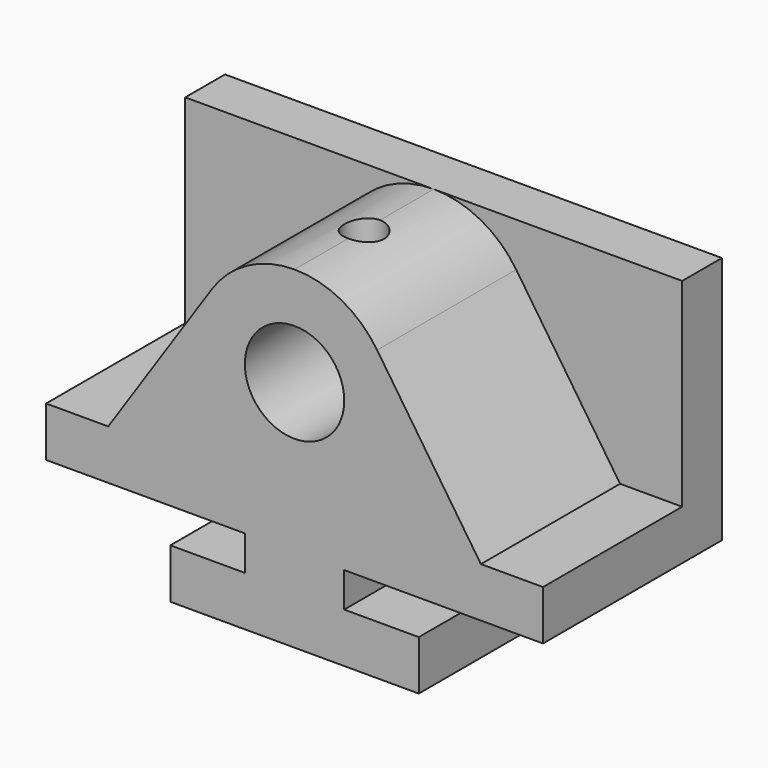
from build123d import *

# Parameters (mm, degrees)
F0_R     = 12.7
F1_DEPTH = 44.45
F2_DEPTH = 12.7
F3_R     = 5.08
F4_DEPTH = 25.4


with BuildPart() as f1:
    # F0 (on Front) → F1 (new body)
    with BuildSketch(Plane.XZ):
        with BuildLine():
            Line((-31.75, 12.7), (-31.75, 0))
            Line((-31.75, 0), (31.75, 0))
            Line((31.75, 0), (31.75, 12.7))
            Line((31.75, 12.7), (12.7, 12.7))
            Line((12.7, 12.7), (12.7, 21.59))
            Line((12.7, 21.59), (63.5, 21.59))
            Line((63.5, 21.59), (63.5, 34.29))
            Line((63.5, 34.29), (47.625, 34.29))
            Line((47.625, 34.29), (21.093426, 73.840173))
            ThreePointArc((21.093426, 73.840173), (11.952941, 82.101765), (0, 85.09))
            ThreePointArc((0, 85.09), (-11.952941, 82.101765), (-21.093426, 73.840173))
            Line((-21.093426, 73.840173), (-47.625, 34.29))
            Line((-47.625, 34.29), (-63.5, 34.29))
            Line((-63.5, 34.29), (-63.5, 21.59))
            Line((-63.5, 21.59), (-12.7, 21.59))
            Line((-12.7, 21.59), (-12.7, 12.7))
            Line((-12.7, 12.7), (-31.75, 12.7))
        make_face()
        with Locations((0, 59.69)):
            Circle(F0_R, mode=Mode.SUBTRACT)
    extrude(amount=F1_DEPTH)

    # F0 (on Front) → F2 (join)
    with BuildSketch(Plane.XZ):
        with BuildLine():
            Line((47.625, 34.29), (63.5, 34.29))
            Line((63.5, 34.29), (63.5, 85.09))
            Line((63.5, 85.09), (0, 85.09))
            ThreePointArc((0, 85.09), (11.952941, 82.101765), (21.093426, 73.840173))
            Line((21.093426, 73.840173), (47.625, 34.29))
        make_face()
        with BuildLine():
            Line((-63.5, 85.09), (-63.5, 34.29))
            Line((-63.5, 34.29), (-47.625, 34.29))
            Line((-47.625, 34.29), (-21.093426, 73.840173))
            ThreePointArc((-21.093426, 73.840173), (-11.952941, 82.101765), (0, 85.09))
            Line((0, 85.09), (-63.5, 85.09))
        make_face()
        with BuildLine():
            Line((-31.75, 12.7), (-31.75, 0))
            Line((-31.75, 0), (31.75, 0))
            Line((31.75, 0), (31.75, 12.7))
            Line((31.75, 12.7), (12.7, 12.7))
            Line((12.7, 12.7), (12.7, 21.59))
            Line((12.7, 21.59), (63.5, 21.59))
            Line((63.5, 21.59), (63.5, 34.29))
            Line((63.5, 34.29), (47.625, 34.29))
            Line((47.625, 34.29), (21.093426, 73.840173))
            ThreePointArc((21.093426, 73.840173), (11.952941, 82.101765), (0, 85.09))
            ThreePointArc((0, 85.09), (-11.952941, 82.101765), (-21.093426, 73.840173))
            Line((-21.093426, 73.840173), (-47.625, 34.29))
            Line((-47.625, 34.29), (-63.5, 34.29))
            Line((-63.5, 34.29), (-63.5, 21.59))
            Line((-63.5, 21.59), (-12.7, 21.59))
            Line((-12.7, 21.59), (-12.7, 12.7))
            Line((-12.7, 12.7), (-31.75, 12.7))
        make_face()
        with Locations((0, 59.69)):
            Circle(F0_R, mode=Mode.SUBTRACT)
    extrude(amount=-F2_DEPTH)

    # F3 (on face) → F4 (cut)
    with BuildSketch(Plane.XY.offset(85.09)):
        with Locations((0, -22.225)):
            Circle(F3_R)
    extrude(amount=-F4_DEPTH, mode=Mode.SUBTRACT)


solid = f1.part
